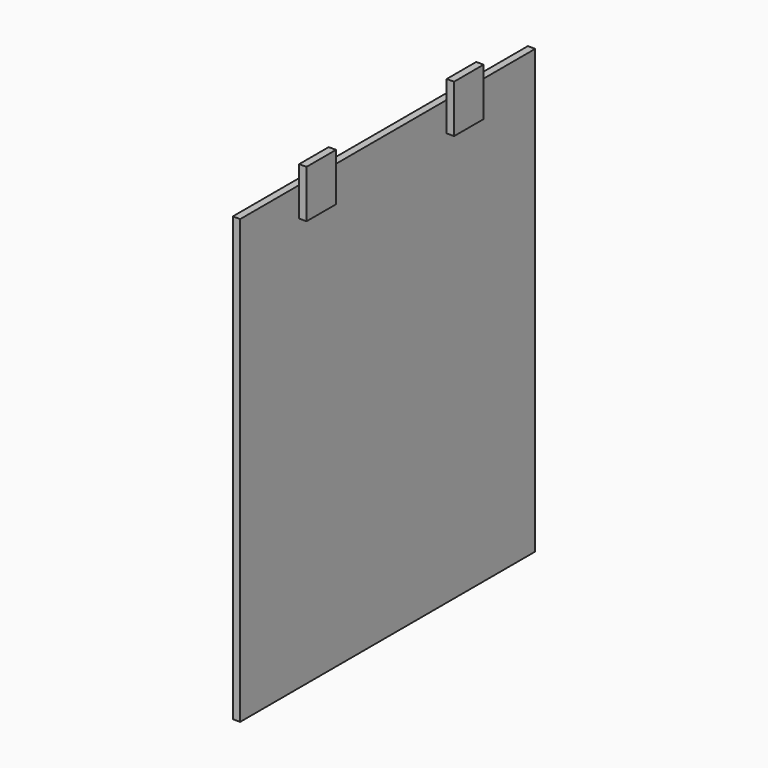
from build123d import *

# Parameters (mm, degrees)
F0_W     = 5.08
F0_H     = 304.8
F1_DEPTH = 50.8
F3_DEPTH = 25.4
F5_DEPTH = 101.6
F7_DEPTH = 25.4
F9_DEPTH = 50.8


with BuildPart() as f1:
    # F0 (on Front) → F1 (new body)
    with BuildSketch(Plane.XZ):
        with Locations((-2.54, 13.9935184479)):
            Rectangle(F0_W, F0_H)
    extrude(amount=F1_DEPTH)

    # F2 (on face) → F3 (join)
    with BuildSketch(Plane.XZ.offset(50.8)):
        Polygon((0, 179.0935184479), (0, 166.3935184479), (0, 146.0735184479), (5.08, 146.0735184479), (5.08, 179.0935184479), align=None)
        Polygon((0, 146.0735184479), (0, 166.3935184479), (-5.08, 166.3935184479), (-5.08, -138.4064815521), (0, -138.4064815521), align=None)
    extrude(amount=F3_DEPTH)

    # F4 (on face) → F5 (join)
    with BuildSketch(Plane.XZ.offset(76.2)):
        Polygon((0, 166.3935184479), (-5.08, 166.3935184479), (-5.08, -138.4064815521), (0, -138.4064815521), (0, 146.0735184479), align=None)
    extrude(amount=F5_DEPTH)

    # F6 (on face) → F7 (join)
    with BuildSketch(Plane.XZ.offset(177.8)):
        Polygon((0, 179.0935184479), (0, 166.3935184479), (0, 146.0735184479), (5.08, 146.0735184479), (5.08, 179.0935184479), align=None)
        Polygon((0, 146.0735184479), (0, 166.3935184479), (-5.08, 166.3935184479), (-5.08, -138.4064815521), (0, -138.4064815521), align=None)
    extrude(amount=F7_DEPTH)

    # F8 (on face) → F9 (join)
    with BuildSketch(Plane.XZ.offset(203.2)):
        Polygon((0, 166.3935184479), (-5.08, 166.3935184479), (-5.08, -138.4064815521), (0, -138.4064815521), (0, 146.0735184479), align=None)
    extrude(amount=F9_DEPTH)


solid = f1.part
